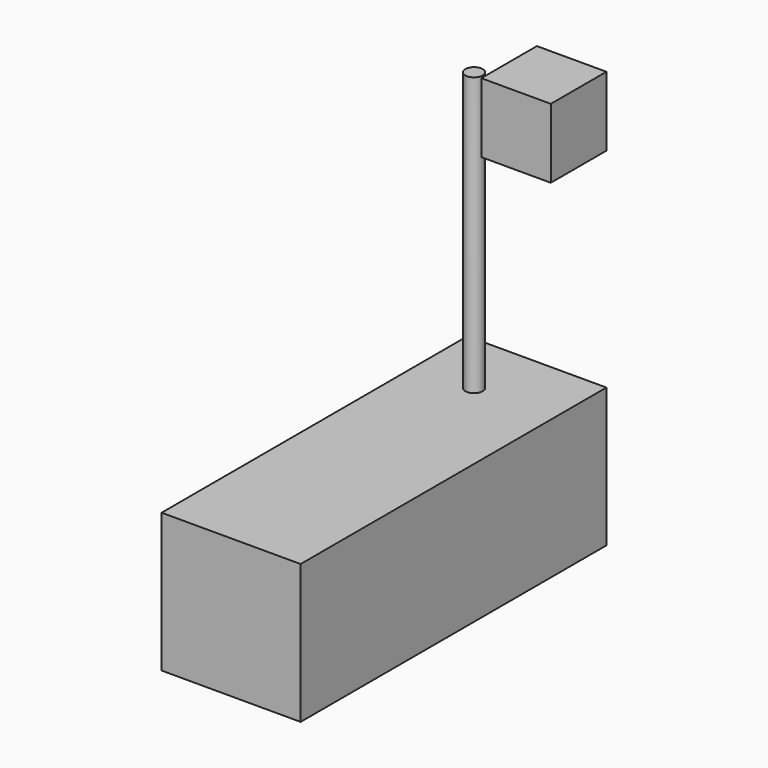
from build123d import *

# Parameters (mm, degrees)
F0_W     = 101.6
F0_H     = 101.6
F1_DEPTH = 279.4
F2_R     = 6.35
F3_DEPTH = 203.2
F4_W     = 50.8
F4_H     = 50.8
F5_DEPTH = 50.8


with BuildPart() as f1:
    # F0 (on Front) → F1 (new body)
    with BuildSketch(Plane.XZ):
        with Locations((-50.8, 50.8)):
            Rectangle(F0_W, F0_H)
    extrude(amount=F1_DEPTH)

    # F2 (on face) → F3 (join)
    with BuildSketch(Plane.XY.offset(101.6)):
        with Locations((-58.59277, -47.676526)):
            Circle(F2_R)
    extrude(amount=F3_DEPTH)


with BuildPart() as f5:
    # F4 (on face) → F5 (new body)
    with BuildSketch(Plane.XY.offset(304.8)):
        with Locations((-25.4, -25.4)):
            Rectangle(F4_W, F4_H)
    extrude(amount=-F5_DEPTH)


solid = Compound([f1.part, f5.part])
